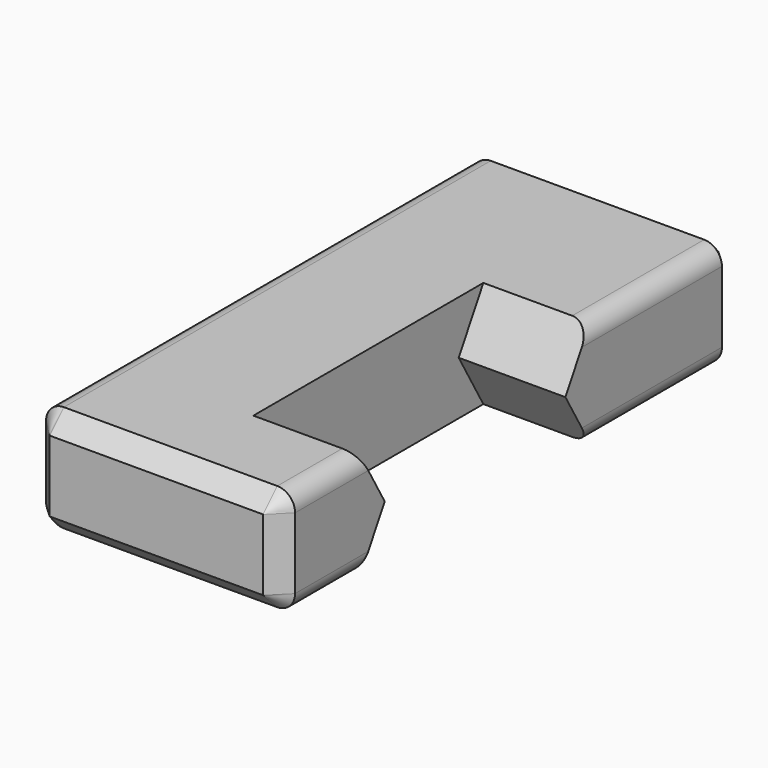
from build123d import *

# Parameters (mm, degrees)
F0_W     = 88.9
F0_H     = 38.1
F1_DEPTH = 203.2
F2_R     = 6.35
F3_SIZE  = 6.35
F4_SIZE  = 6.35
F6_DEPTH = 38.1
F7_R     = 6.35
F8_DEPTH = 2.54


with BuildPart() as f1:
    # F0 (on Front) → F1 (new body)
    with BuildSketch(Plane.XZ):
        Rectangle(F0_W, F0_H)
    extrude(amount=F1_DEPTH)

    # F2
    f2_edges = [f1.edges().sort_by_distance(p)[0] for p in [
        (-44.45, -101.6, 19.05),
        (-44.45, -101.6, -19.05),
        (44.45, -101.6, 19.05),
        (44.45, -101.6, -19.05),
    ]]
    fillet(f2_edges, radius=F2_R)

    # F3
    f3_edges = [f1.edges().sort_by_distance(p)[0] for p in [
        (0, -203.2, 19.05),
    ]]
    chamfer(f3_edges, length=F3_SIZE)

    # F4
    f4_edges = [f1.edges().sort_by_distance(p)[0] for p in [
        (0, 0, 19.05),
    ]]
    chamfer(f4_edges, length=F4_SIZE)

    # F5 (on face) → F6 (cut)
    with BuildSketch(Plane.YZ.offset(44.45)):
        Polygon((-46.870606, -50.8), (-76.2, 0), (-156.845, 0), (-186.174394, -50.8), align=None)
        Polygon((-156.845, 0), (-76.2, 0), (-46.870606, 50.8), (-186.174394, 50.8), align=None)
    extrude(amount=-F6_DEPTH, mode=Mode.SUBTRACT)

    # F7 (on face) → F8 (cut)
    with BuildSketch(Plane(origin=(0, 0, 0), x_dir=(-1, 0, 0), z_dir=(0, 1, 0))):
        with Locations((25.4, 0)):
            Circle(F7_R)
    extrude(amount=-F8_DEPTH, mode=Mode.SUBTRACT)


solid = f1.part
